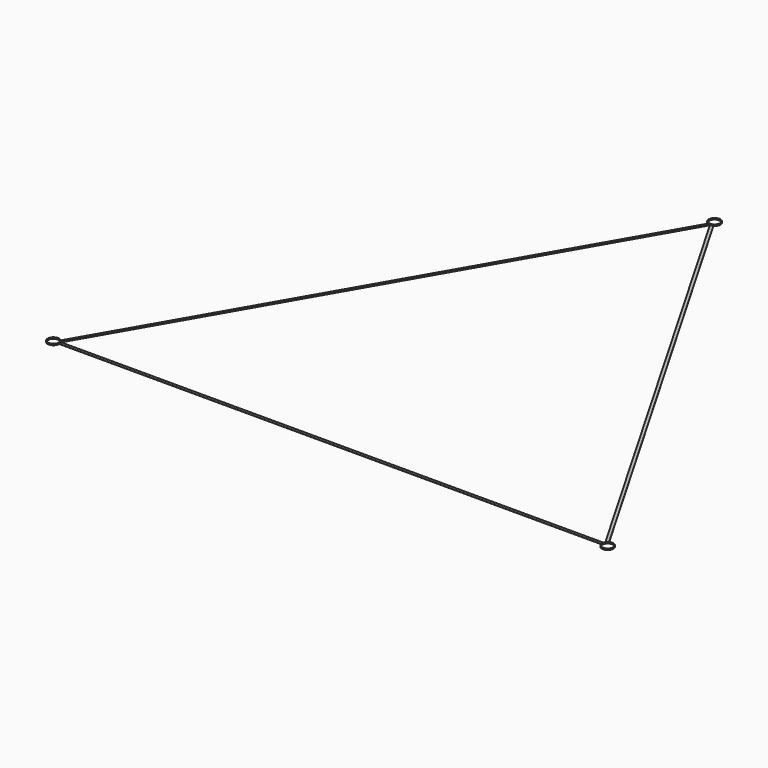
from build123d import *

# Parameters (mm, degrees)
F0_R     = 45
F1_DEPTH = 10
F2_DEPTH = 2


with BuildPart() as f1:
    # F0 (on Top) → F1 (new body)
    with BuildSketch(Plane.XY):
        with BuildLine():
            ThreePointArc((-2350, -1385.640646), (-2351.703709, -1372.699694), (-2356.69873, -1360.640646))
            ThreePointArc((-2356.69873, -1360.640646), (-2364.644661, -1350.285307), (-2375, -1342.339376))
            ThreePointArc((-2375, -1342.339376), (-2443.30127, -1410.640646), (-2350, -1385.640646))
        make_face()
        with Locations((-2400, -1385.640646)):
            Circle(F0_R, mode=Mode.SUBTRACT)
        with BuildLine():
            ThreePointArc((2450, -1385.640646), (2425, -1342.339376), (2375, -1342.339376))
            ThreePointArc((2375, -1342.339376), (2364.644661, -1350.285307), (2356.69873, -1360.640646))
            ThreePointArc((2356.69873, -1360.640646), (2351.703709, -1372.699694), (2350, -1385.640646))
            ThreePointArc((2350, -1385.640646), (2400, -1435.640646), (2450, -1385.640646))
        make_face()
        with Locations((2400, -1385.640646)):
            Circle(F0_R, mode=Mode.SUBTRACT)
        with BuildLine():
            ThreePointArc((0, 2721.281292), (12.940952, 2722.985001), (25, 2727.980022))
            ThreePointArc((25, 2727.980022), (43.30127, 2746.281292), (50, 2771.281292))
            ThreePointArc((50, 2771.281292), (-25, 2814.582562), (-25, 2727.980022))
            ThreePointArc((-25, 2727.980022), (-12.940952, 2722.985001), (0, 2721.281292))
        make_face()
        with Locations((0, 2771.281292)):
            Circle(F0_R, mode=Mode.SUBTRACT)
    extrude(amount=F1_DEPTH)


with BuildPart() as f2:
    # F0 (on Top) → F2 (new body)
    with BuildSketch(Plane.XY):
        with BuildLine():
            Line((-2356.69873, -1360.640646), (0, 2721.281292))
            ThreePointArc((0, 2721.281292), (-12.940952, 2722.985001), (-25, 2727.980022))
            Line((-25, 2727.980022), (-2375, -1342.339376))
            ThreePointArc((-2375, -1342.339376), (-2364.644661, -1350.285307), (-2356.69873, -1360.640646))
        make_face()
        with BuildLine():
            Line((2375, -1342.339376), (25, 2727.980022))
            ThreePointArc((25, 2727.980022), (12.940952, 2722.985001), (0, 2721.281292))
            Line((0, 2721.281292), (2356.69873, -1360.640646))
            ThreePointArc((2356.69873, -1360.640646), (2364.644661, -1350.285307), (2375, -1342.339376))
        make_face()
        with BuildLine():
            ThreePointArc((2350, -1385.640646), (2351.703709, -1372.699694), (2356.69873, -1360.640646))
            Line((2356.69873, -1360.640646), (-2356.69873, -1360.640646))
            ThreePointArc((-2356.69873, -1360.640646), (-2351.703709, -1372.699694), (-2350, -1385.640646))
            Line((-2350, -1385.640646), (2350, -1385.640646))
        make_face()
    extrude(amount=F2_DEPTH)


solid = Compound([f1.part, f2.part])
